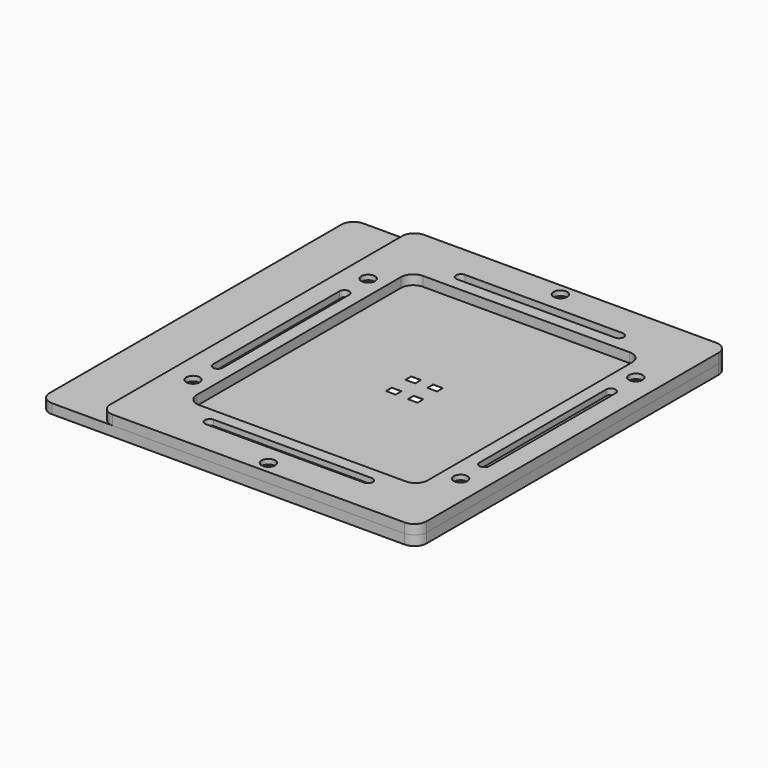
from build123d import *

# Parameters (mm, degrees)
SKETCH_W         = 4
SKETCH_H         = 3
EXTRUDE_DEPTH    = 0.05
EXTRUDE005_DEPTH = 2
SKETCH001_R      = 1.45
EXTRUDE001_DEPTH = 4
SKETCH004_R      = 2.8
EXTRUDE004_DEPTH = 3
SKETCH003_R      = 1.8
EXTRUDE003_DEPTH = 4


with BuildPart() as extrude_body:
    # Sketch → Extrude (new body)
    with BuildSketch(Plane.XY):
        with BuildLine():
            Line((-47.825, 62.625), (47.825, 62.625))
            ThreePointArc((52.825, 57.625), (51.360534, 61.160534), (47.825, 62.625))
            Line((52.825, 57.625), (52.825, -57.625))
            ThreePointArc((47.825, -62.625), (51.360534, -61.160534), (52.825, -57.625))
            Line((47.825, -62.625), (-47.825, -62.625))
            ThreePointArc((-52.825, -57.625), (-51.360534, -61.160534), (-47.825, -62.625))
            Line((-52.825, -57.625), (-52.825, 57.625))
            ThreePointArc((-47.825, 62.625), (-51.360534, 61.160534), (-52.825, 57.625))
        make_face()
        with Locations((-4.5, 5)):
            Rectangle(SKETCH_W, SKETCH_H, mode=Mode.SUBTRACT)
        with Locations((4.5, 5)):
            Rectangle(SKETCH_W, SKETCH_H, mode=Mode.SUBTRACT)
        with Locations((-4.5, -5)):
            Rectangle(SKETCH_W, SKETCH_H, mode=Mode.SUBTRACT)
        with Locations((4.5, -5)):
            Rectangle(SKETCH_W, SKETCH_H, mode=Mode.SUBTRACT)
    extrude(amount=EXTRUDE_DEPTH)


with BuildPart() as extrude_body_1:
    # Extrude placement: moved
    add(extrude_body.part.moved(Location((0, 0, 4))))


with BuildPart() as extrude005:
    # Sketch002 → Extrude005 (new body)
    with BuildSketch(Plane.XY):
        with BuildLine():
            Line((53.25, 32.5), (53.25, -32.5))
            ThreePointArc((53.25, -32.5), (54.5, -33.75), (55.75, -32.5))
            Line((55.75, -32.5), (55.75, 32.5))
            ThreePointArc((55.75, 32.5), (54.5, 33.75), (53.25, 32.5))
        make_face()
        with BuildLine():
            Line((-53.25, 32.5), (-53.25, -32.5))
            ThreePointArc((-55.75, -32.5), (-54.5, -33.75), (-53.25, -32.5))
            Line((-55.75, -32.5), (-55.75, 32.5))
            ThreePointArc((-53.25, 32.5), (-54.5, 33.75), (-55.75, 32.5))
        make_face()
        with BuildLine():
            Line((-32.5, 65.5), (32.5, 65.5))
            ThreePointArc((32.5, 63), (33.75, 64.25), (32.5, 65.5))
            Line((32.5, 63), (-32.5, 63))
            ThreePointArc((-32.5, 65.5), (-33.75, 64.25), (-32.5, 63))
        make_face()
        with BuildLine():
            Line((-32.5, -63), (32.5, -63))
            ThreePointArc((32.5, -65.5), (33.75, -64.25), (32.5, -63))
            Line((32.5, -65.5), (-32.5, -65.5))
            ThreePointArc((-32.5, -63), (-33.75, -64.25), (-32.5, -65.5))
        make_face()
    extrude(amount=EXTRUDE005_DEPTH)


with BuildPart() as extrude005_1:
    # Extrude005 placement: moved
    add(extrude005.part.moved(Location((0, 0, 4))))


with BuildPart() as fusion:
    # Sketch001 → Extrude001 (new body)
    with BuildSketch(Plane.XY):
        with BuildLine():
            Line((-85, 80), (60, 80))
            ThreePointArc((65, 75), (63.535534, 78.535534), (60, 80))
            Line((65, 75), (65, -75))
            ThreePointArc((60, -80), (63.535534, -78.535534), (65, -75))
            Line((60, -80), (-85, -80))
            ThreePointArc((-90, -75), (-88.535534, -78.535534), (-85, -80))
            Line((-90, -75), (-90, 75))
            ThreePointArc((-85, 80), (-88.535534, 78.535534), (-90, 75))
        make_face()
        with Locations((-55, 45)):
            Circle(SKETCH001_R, mode=Mode.SUBTRACT)
        with Locations((55, -45)):
            Circle(SKETCH001_R, mode=Mode.SUBTRACT)
        with Locations((-55, -45)):
            Circle(SKETCH001_R, mode=Mode.SUBTRACT)
        with Locations((55, 45)):
            Circle(SKETCH001_R, mode=Mode.SUBTRACT)
        with Locations((0, 75)):
            Circle(SKETCH001_R, mode=Mode.SUBTRACT)
        with Locations((0, -75)):
            Circle(SKETCH001_R, mode=Mode.SUBTRACT)
        with BuildLine():
            Line((-42.5, 57.5), (42.5, 57.5))
            ThreePointArc((47.5, 52.5), (46.035534, 56.035534), (42.5, 57.5))
            Line((47.5, 52.5), (47.5, -52.5))
            ThreePointArc((42.5, -57.5), (46.035534, -56.035534), (47.5, -52.5))
            Line((42.5, -57.5), (-42.5, -57.5))
            ThreePointArc((-47.5, -52.5), (-46.035534, -56.035534), (-42.5, -57.5))
            Line((-47.5, -52.5), (-47.5, 52.5))
            ThreePointArc((-42.5, 57.5), (-46.035534, 56.035534), (-47.5, 52.5))
        make_face(mode=Mode.SUBTRACT)
    extrude(amount=EXTRUDE001_DEPTH)

    # Fusion: union Extrude005
    add(extrude005_1.part)


with BuildPart() as extrude004:
    # Sketch004 → Extrude004 (new body)
    with BuildSketch(Plane.XY):
        with Locations((-55, 45)):
            Circle(SKETCH004_R)
        with Locations((55, -45)):
            Circle(SKETCH004_R)
        with Locations((-55, -45)):
            Circle(SKETCH004_R)
        with Locations((55, 45)):
            Circle(SKETCH004_R)
        with Locations((0, -75)):
            Circle(SKETCH004_R)
        with Locations((0, 75)):
            Circle(SKETCH004_R)
    extrude(amount=EXTRUDE004_DEPTH)


with BuildPart() as extrude004_1:
    # Extrude004 placement: moved
    add(extrude004.part.moved(Location((0, 0, 6))))


with BuildPart() as cut:
    # Sketch003 → Extrude003 (new body)
    with BuildSketch(Plane.XY):
        with BuildLine():
            Line((-60, 80), (60, 80))
            ThreePointArc((65, 75), (63.535534, 78.535534), (60, 80))
            Line((65, 75), (65, -75))
            ThreePointArc((60, -80), (63.535534, -78.535534), (65, -75))
            Line((60, -80), (-60, -80))
            ThreePointArc((-65, -75), (-63.535534, -78.535534), (-60, -80))
            Line((-65, -75), (-65, 75))
            ThreePointArc((-60, 80), (-63.535534, 78.535534), (-65, 75))
        make_face()
        with Locations((-55, 45)):
            Circle(SKETCH003_R, mode=Mode.SUBTRACT)
        with Locations((55, -45)):
            Circle(SKETCH003_R, mode=Mode.SUBTRACT)
        with Locations((-55, -45)):
            Circle(SKETCH003_R, mode=Mode.SUBTRACT)
        with Locations((55, 45)):
            Circle(SKETCH003_R, mode=Mode.SUBTRACT)
        with Locations((0, -75)):
            Circle(SKETCH003_R, mode=Mode.SUBTRACT)
        with Locations((0, 75)):
            Circle(SKETCH003_R, mode=Mode.SUBTRACT)
        with BuildLine():
            Line((-42.5, 57.5), (42.5, 57.5))
            ThreePointArc((47.5, 52.5), (46.035534, 56.035534), (42.5, 57.5))
            Line((47.5, 52.5), (47.5, -52.5))
            ThreePointArc((42.5, -57.5), (46.035534, -56.035534), (47.5, -52.5))
            Line((42.5, -57.5), (-42.5, -57.5))
            ThreePointArc((-47.5, -52.5), (-46.035534, -56.035534), (-42.5, -57.5))
            Line((-47.5, -52.5), (-47.5, 52.5))
            ThreePointArc((-42.5, 57.5), (-46.035534, 56.035534), (-47.5, 52.5))
        make_face(mode=Mode.SUBTRACT)
        with BuildLine():
            ThreePointArc((-52.75, 32.5), (-54.75, 34.5), (-56.75, 32.5))
            Line((-56.75, 32.5), (-56.75, -32.5))
            ThreePointArc((-56.75, -32.5), (-54.75, -34.5), (-52.75, -32.5))
            Line((-52.75, 32.5), (-52.75, -32.5))
        make_face(mode=Mode.SUBTRACT)
        with BuildLine():
            ThreePointArc((-32.5, -62.5), (-34.5, -64.5), (-32.5, -66.5))
            Line((-32.5, -66.5), (32.5, -66.5))
            ThreePointArc((32.5, -66.5), (34.5, -64.5), (32.5, -62.5))
            Line((-32.5, -62.5), (32.5, -62.5))
        make_face(mode=Mode.SUBTRACT)
        with BuildLine():
            ThreePointArc((56.75, 32.5), (54.75, 34.5), (52.75, 32.5))
            Line((52.75, 32.5), (52.75, -32.5))
            ThreePointArc((52.75, -32.5), (54.75, -34.5), (56.75, -32.5))
            Line((56.75, 32.5), (56.75, -32.5))
        make_face(mode=Mode.SUBTRACT)
        with BuildLine():
            ThreePointArc((-32.5, 66.5), (-34.5, 64.5), (-32.5, 62.5))
            Line((-32.5, 62.5), (32.5, 62.5))
            ThreePointArc((32.5, 62.5), (34.5, 64.5), (32.5, 66.5))
            Line((-32.5, 66.5), (32.5, 66.5))
        make_face(mode=Mode.SUBTRACT)
    extrude(amount=EXTRUDE003_DEPTH)


with BuildPart() as cut_1:
    # Extrude003 placement: moved
    add(cut.part.moved(Location((0, 0, 4))))

    # Cut: cut Extrude004
    add(extrude004_1.part, mode=Mode.SUBTRACT)


solid = Compound([extrude_body_1.part, fusion.part, cut_1.part])
